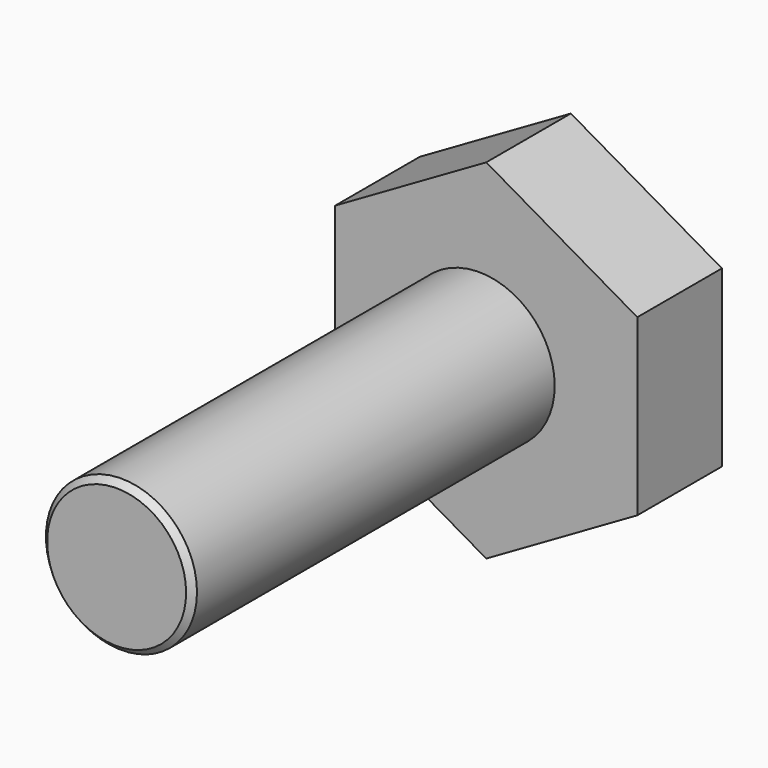
from build123d import *

# Parameters (mm, degrees)
F1_DEPTH = 35
F2_R     = 25
F3_DEPTH = 150
F4_SIZE  = 2


with BuildPart() as f1:
    # F0 (on Front) → F1 (new body)
    with BuildSketch(Plane.XZ):
        Polygon((52.348992, -28.867513), (52.348992, 28.867513), (2.348992, 57.735027), (-47.651008, 28.867513), (-47.651008, -28.867513), (2.348992, -57.735027), align=None)
    extrude(amount=F1_DEPTH)

    # F2 (on face) → F3 (join)
    with BuildSketch(Plane.XZ.offset(35)):
        Circle(F2_R)
    extrude(amount=F3_DEPTH)

    # F4
    f4_edges = [f1.edges().sort_by_distance(p)[0] for p in [
        (-25, -185, 0),
    ]]
    chamfer(f4_edges, length=F4_SIZE)


solid = f1.part
